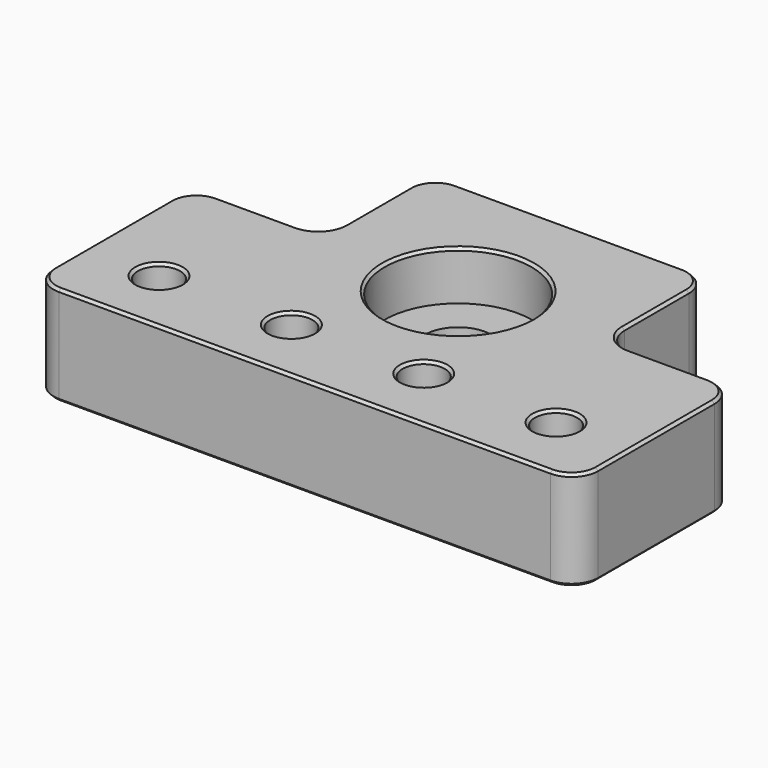
from build123d import *

# Parameters (mm, degrees)
SKETCH_R        = 5
SKETCH_R_2      = 3.2
PAD_DEPTH       = 15
SKETCH002_R     = 6.1
POCKET001_DEPTH = 4
SKETCH003_R     = 11.1
POCKET_DEPTH    = 7.4
FILLET_R        = 4
CHAMFER_SIZE    = 0.4
CHAMFER001_SIZE = 0.4


with BuildPart() as part:
    # Sketch → Pad (new body)
    with BuildSketch(Plane.XY):
        Polygon((20, 30), (20, 50.15), (62.3, 50.15), (62.3, 30), (82.3, 30), (82.3, 0), (0, 0), (0, 30), align=None)
        with Locations((41.15, 29)):
            Circle(SKETCH_R, mode=Mode.SUBTRACT)
        with Locations((11.15, 10)):
            Circle(SKETCH_R_2, mode=Mode.SUBTRACT)
        with Locations((31.15, 10)):
            Circle(SKETCH_R_2, mode=Mode.SUBTRACT)
        with Locations((51.15, 10)):
            Circle(SKETCH_R_2, mode=Mode.SUBTRACT)
        with Locations((71.15, 10)):
            Circle(SKETCH_R_2, mode=Mode.SUBTRACT)
    extrude(amount=PAD_DEPTH)

    # Sketch002 → Pocket001 (cut)
    with BuildSketch(Plane(origin=(0, 0, 0), x_dir=(1, 0, 0), z_dir=(0, 0, -1))):
        with Locations((11.15, -10)):
            Circle(SKETCH002_R)
        with Locations((31.15, -10)):
            Circle(SKETCH002_R)
        with Locations((51.15, -10)):
            Circle(SKETCH002_R)
        with Locations((71.15, -10)):
            Circle(SKETCH002_R)
    extrude(amount=-POCKET001_DEPTH, mode=Mode.SUBTRACT)

    # Sketch003 (on Face5 of Pocket001) → Pocket (cut)
    with BuildSketch(Plane.XY.offset(15)):
        with Locations((41.15, 29)):
            Circle(SKETCH003_R)
    extrude(amount=-POCKET_DEPTH, mode=Mode.SUBTRACT)

    # Fillet
    fillet_edges = [part.edges().sort_by_distance(p)[0] for p in [
        (82.3, 0, 7.5),
        (0, 0, 7.5),
        (0, 30, 7.5),
        (20, 30, 7.5),
        (20, 50.15, 7.5),
        (62.3, 50.15, 7.5),
        (62.3, 30, 7.5),
        (82.3, 30, 7.5),
    ]]
    fillet(fillet_edges, radius=FILLET_R)

    # Chamfer
    chamfer_edges = [part.edges().sort_by_distance(p)[0] for p in [
        (20, 40.075, 15),
        (18.828427, 31.171573, 15),
        (21.171573, 48.978427, 15),
        (10, 30, 15),
        (41.15, 50.15, 15),
        (1.171573, 28.828427, 15),
        (61.128427, 48.978427, 15),
        (0, 15, 15),
        (62.3, 40.075, 15),
        (1.171573, 1.171573, 15),
        (63.471573, 31.171573, 15),
        (41.15, 0, 15),
        (72.3, 30, 15),
        (81.128427, 1.171573, 15),
        (81.128427, 28.828427, 15),
        (82.3, 15, 15),
        (67.95, 10, 15),
        (47.95, 10, 15),
        (27.95, 10, 15),
        (7.95, 10, 15),
        (30.05, 29, 15),
    ]]
    chamfer(chamfer_edges, length=CHAMFER_SIZE)

    # Chamfer001
    chamfer001_edges = [part.edges().sort_by_distance(p)[0] for p in [
        (20, 40.075, 0),
        (18.828427, 31.171573, 0),
        (21.171573, 48.978427, 0),
        (10, 30, 0),
        (41.15, 50.15, 0),
        (1.171573, 28.828427, 0),
        (61.128427, 48.978427, 0),
        (0, 15, 0),
        (62.3, 40.075, 0),
        (1.171573, 1.171573, 0),
        (63.471573, 31.171573, 0),
        (41.15, 0, 0),
        (72.3, 30, 0),
        (81.128427, 1.171573, 0),
        (81.128427, 28.828427, 0),
        (82.3, 15, 0),
        (65.05, 10, 0),
        (45.05, 10, 0),
        (25.05, 10, 0),
        (5.05, 10, 0),
        (36.15, 29, 0),
    ]]
    chamfer(chamfer001_edges, length=CHAMFER001_SIZE)


solid = part.part
